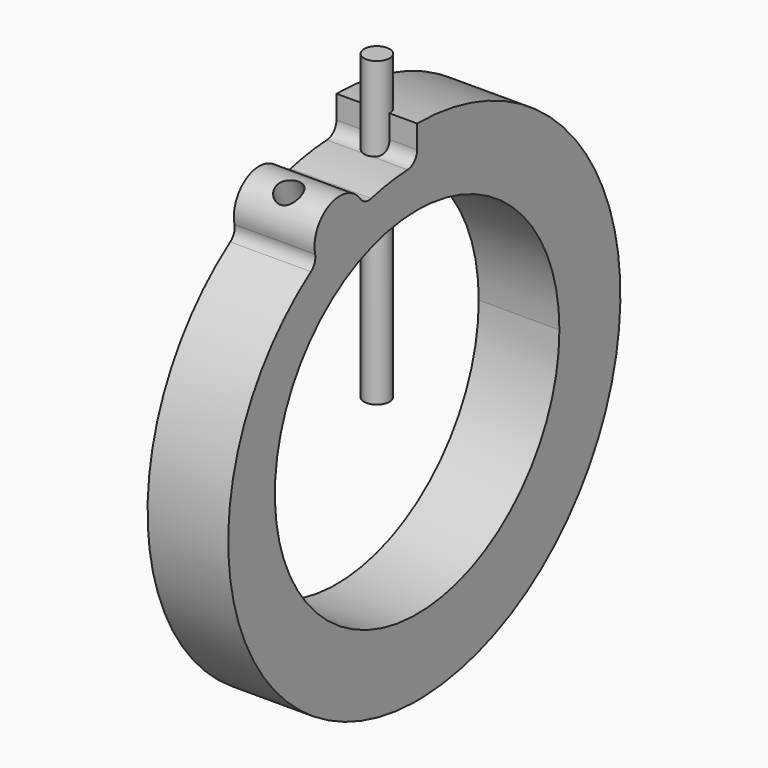
from build123d import *

# Parameters (mm, degrees)
F1_DEPTH = 15.875
F2_R     = 5
F3_R     = 5
F4_DEPTH = 119.05865
F6_COUNT = 2
F6_ANGLE = 26


with BuildPart() as f1:
    # F0 (on Right) → F1 (new body, symmetric)
    with BuildSketch(Plane.YZ):
        with BuildLine():
            ThreePointArc((0, 70), (-49.497475, -49.497475), (70, 0))
            ThreePointArc((70, 0), (49.497475, 49.497475), (0, 70))
        make_face()
        with BuildLine():
            Line((0, 100), (0, 85.999985))
            ThreePointArc((0, 85.999985), (-13.274622, 85.04014), (-26.276301, 82.195282))
            ThreePointArc((-26.276301, 82.195282), (-43.114528, 89.264593), (-49.036272, 71.98935))
            ThreePointArc((-49.036272, 71.98935), (-89.646202, -31.564643), (-1.943395, -99.981114))
            ThreePointArc((-1.943395, -99.981114), (0.751375, -99.997177), (3.445599, -99.940622))
            ThreePointArc((3.445599, -99.940622), (99.985154, 1.723055), (0, 100))
        make_face()
        with BuildLine():
            ThreePointArc((0, 70), (49.497475, 49.497475), (70, 0))
            ThreePointArc((70, 0), (-49.497475, -49.497475), (0, 70))
        make_face(mode=Mode.SUBTRACT)
        with BuildLine():
            ThreePointArc((-1.943395, -99.981114), (0.751396, -99.999911), (3.445599, -99.940622))
            ThreePointArc((3.445599, -99.940622), (0.751375, -99.997177), (-1.943395, -99.981114))
        make_face()
    extrude(amount=F1_DEPTH, both=True)

    # F2
    f2_edges = [f1.edges().sort_by_distance(p)[0] for p in [
        (0, -26.276301, 82.195282),
        (0, -49.036272, 71.98935),
        (0, 0, 85.999985),
    ]]
    fillet(f2_edges, radius=F2_R)


with BuildPart() as f4:
    # F3 (on Top) → F4 (new body)
    with BuildSketch(Plane.XY):
        Circle(F3_R)
    extrude(amount=F4_DEPTH)


with BuildPart() as f6_1:
    # F6: instance of F4
    add(f4.part.rotate(Axis((7.795472, 0, 0), (1, 0, 0)), 1 * F6_ANGLE / (F6_COUNT - 1)))


with BuildPart() as f1_1:
    add(f1.part)

    # F7: cut F6_1
    add(f6_1.part, mode=Mode.SUBTRACT)


solid = Compound([f4.part, f1_1.part])
